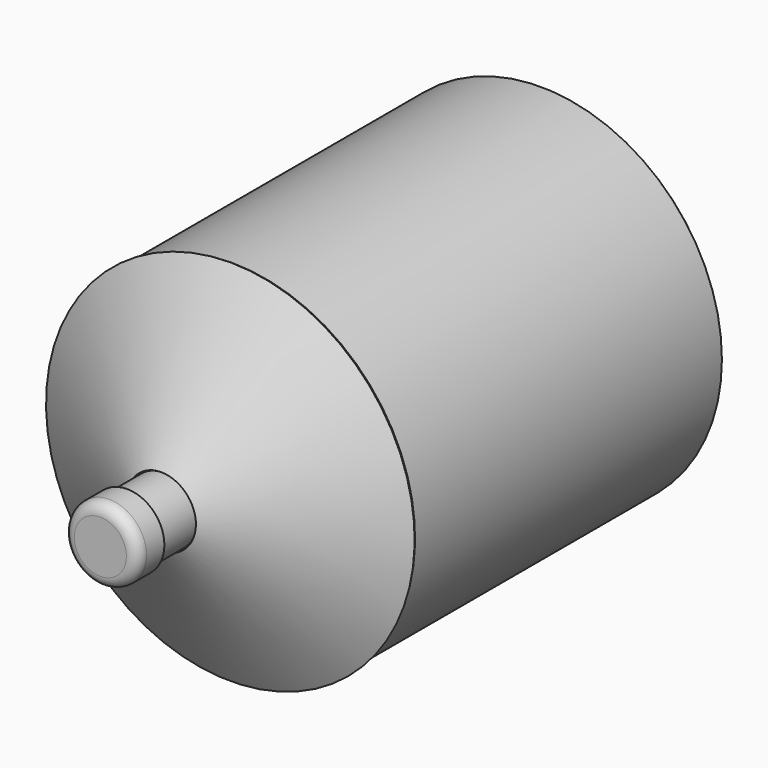
from build123d import *

# Parameters (mm, degrees)
F0_R     = 77.216
F0_R_2   = 76.2
F1_DEPTH = 165.1
F2_DEPTH = 1.016
F5_W     = 25.4
F5_H     = 1.5875


with BuildPart() as f1:
    # F0 (on Front) → F1 (new body)
    with BuildSketch(Plane.XZ):
        Circle(F0_R)
        Circle(F0_R_2, mode=Mode.SUBTRACT)
    extrude(amount=F1_DEPTH)


with BuildPart() as f2:
    # F0 (on Front) → F2 (new body)
    with BuildSketch(Plane.XZ):
        Circle(F0_R_2)
    extrude(amount=-F2_DEPTH)


with BuildPart() as f4:
    # F3 (on Right) → F4 (revolve)
    with BuildSketch(Plane.YZ):
        Polygon((-201.431786, 14.2875), (-164.601786, 78.078931), (-165.481668, 78.586931), (-202.311668, 14.7955), align=None)
    revolve(axis=Axis((0, -97.843254, 0), (0, -1, 0)))


with BuildPart() as f6:
    # F5 (on Right) → F6 (revolve)
    with BuildSketch(Plane.YZ):
        with Locations((-214.131786, 13.49375)):
            Rectangle(F5_W, F5_H)
    revolve(axis=Axis((0, -128.725841, 0), (0, -1, 0)))


with BuildPart() as f8:
    # F7 (on Right) → F8 (revolve)
    with BuildSketch(Plane.YZ):
        with BuildLine():
            Line((-230.006786, 14.2875), (-220.481786, 14.2875))
            Line((-220.481786, 14.2875), (-220.481786, 15.875))
            Line((-220.481786, 15.875), (-230.006786, 15.875))
            ThreePointArc((-230.006786, 15.875), (-233.374382, 14.480096), (-234.769286, 11.1125))
            Line((-234.769286, 11.1125), (-234.769286, 0))
            Line((-234.769286, 0), (-233.181786, 0))
            Line((-233.181786, 0), (-233.181786, 11.1125))
            ThreePointArc((-233.181786, 11.1125), (-232.25185, 13.357564), (-230.006786, 14.2875))
        make_face()
    revolve(axis=Axis((0, -147.307113, 0), (0, -1, 0)))


solid = Compound([f1.part, f2.part, f4.part, f6.part, f8.part])
